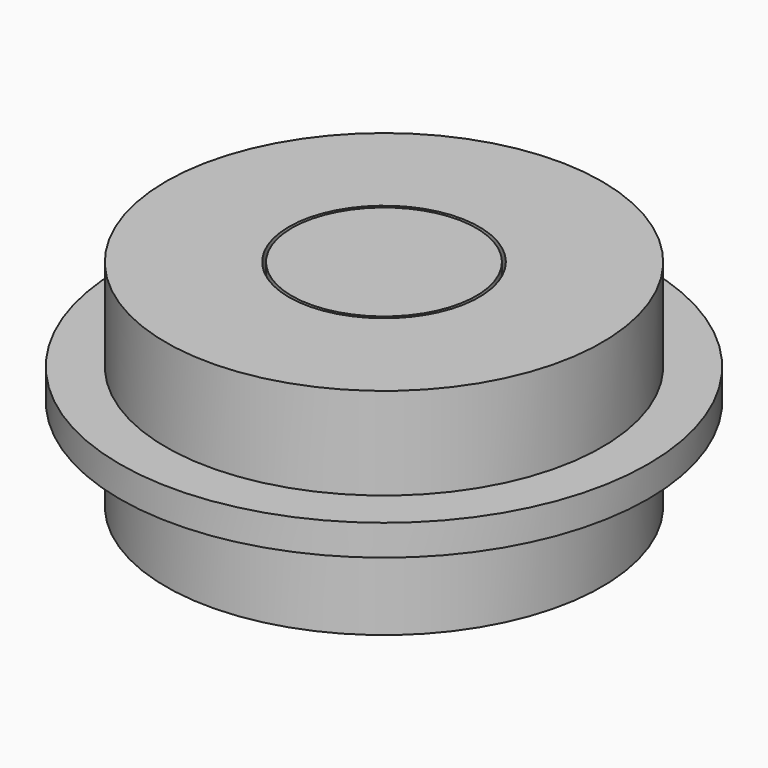
from build123d import *


with BuildPart() as f1:
    # F0 (on Front) → F1 (revolve)
    with BuildSketch(Plane.XZ):
        Polygon((-7.1, 0), (-3.1, 0), (-3.1, 0.941653), (-4.7, 0.941653), (-4.7, 6.07437), (-3.1, 6.07437), (-3.1, 7), (-7.1, 7), (-7.1, 4), (-8.6, 4), (-8.6, 3), (-7.1, 3), align=None)
        Polygon((-3, 0), (0, 0), (0, 7), (-3, 7), (-3, 4), (-4.5, 4), (-4.5, 3), (-3, 3), align=None)
    revolve(axis=Axis((0, 0, 3.5), (0, 0, -1)))


solid = f1.part
